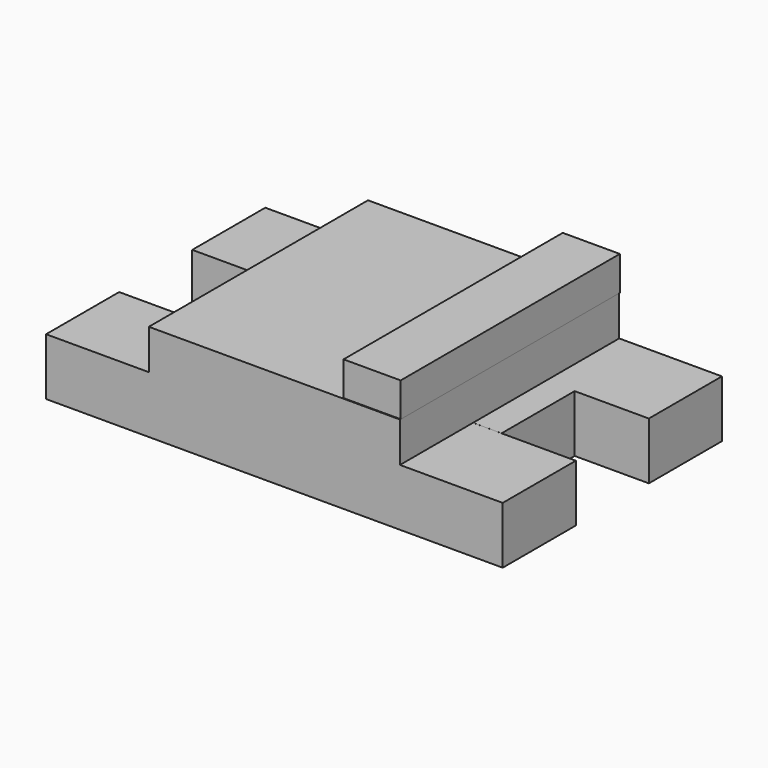
from build123d import *

# Parameters (mm, degrees)
F1_DEPTH      = 69.85
F1_DEPTH_BACK = 69.85
F0_W          = 50.8
F0_H          = 31.75
F2_DEPTH      = 85.725
F3_DEPTH      = 127
F3_DEPTH_BACK = 127
F4_W          = 31.75
F4_H          = 19.05
F5_DEPTH      = 88.9
F5_DEPTH_BACK = 63.5


with BuildPart() as f1:
    # F0 (on Right) → F1 (new body, two sides)
    with BuildSketch(Plane.YZ) as f1_sk:
        Polygon((-89.356257, 22.225), (-89.356257, 0), (-38.556257, 0), (-38.529839, 0), (12.270161, 0), (63.043743, 0), (63.043743, 22.225), (31.293743, 22.225), (-57.606257, 22.225), align=None)
    extrude(amount=F1_DEPTH)
    extrude(f1_sk.sketch, amount=-F1_DEPTH_BACK)

    # F0 (on Right) → F2 (join)
    with BuildSketch(Plane.YZ):
        with Locations((-13.129839, -15.875)):
            Rectangle(F0_W, F0_H)
    extrude(amount=F2_DEPTH)

    # F0 (on Right) → F3 (join, two sides)
    with BuildSketch(Plane.YZ) as f3_sk:
        with Locations((-63.956257, -15.875)):
            Rectangle(F0_W, F0_H)
        Polygon((63.043743, 0), (12.270161, 0), (12.270161, -31.75), (63.070161, -31.75), (63.070161, 0), align=None)
    extrude(amount=F3_DEPTH)
    extrude(f3_sk.sketch, amount=-F3_DEPTH_BACK)

    # F4 (on Front) → F5 (join, two sides)
    with BuildSketch(Plane.XZ) as f5_sk:
        with Locations((53.98327, 31.68009)):
            Rectangle(F4_W, F4_H)
    extrude(amount=F5_DEPTH)
    extrude(f5_sk.sketch, amount=-F5_DEPTH_BACK)


solid = f1.part
